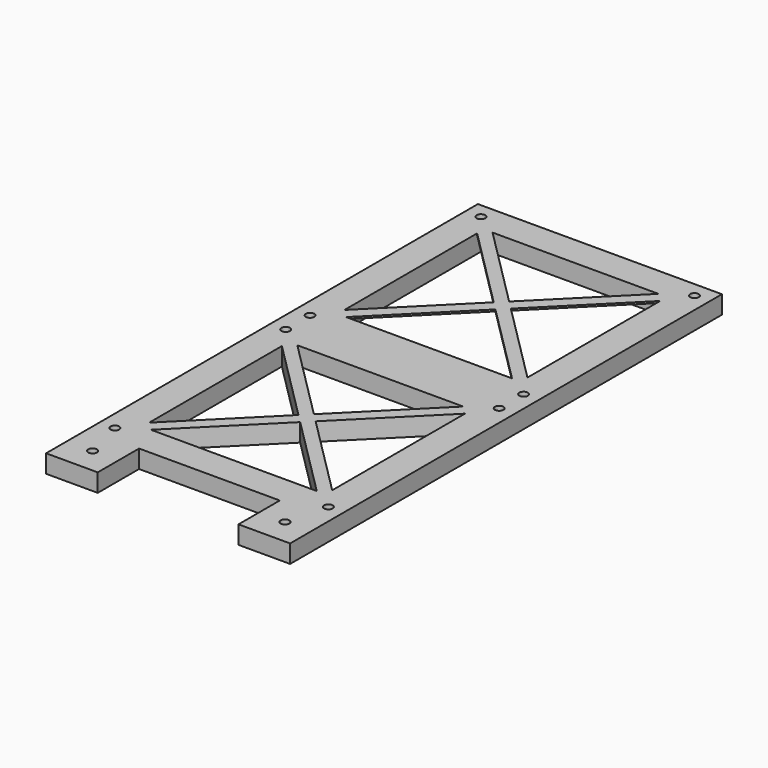
from build123d import *

# Parameters (mm, degrees)
SKETCH_R     = 2.1082
SKETCH_W     = 90
SKETCH_H     = 90
PAD_DEPTH    = 8.89
SKETCH001_W  = 25.4
SKETCH001_H  = 25.4
SKETCH001_R  = 2.1463
PAD001_DEPTH = 8.89
PAD002_DEPTH = 8.89
PAD003_DEPTH = 0.889


with BuildPart() as part:
    # Sketch → Pad (new body)
    with BuildSketch(Plane.XY):
        Polygon((60, 60), (60, -60), (-60, -60), (-60, 60), (-60, 180), (60, 180), align=None)
        with Locations((-52.5, 52.5)):
            Circle(SKETCH_R, mode=Mode.SUBTRACT)
        with Locations((52.5, 52.5)):
            Circle(SKETCH_R, mode=Mode.SUBTRACT)
        with Locations((-52.5, -52.5)):
            Circle(SKETCH_R, mode=Mode.SUBTRACT)
        with Locations((52.5, -52.5)):
            Circle(SKETCH_R, mode=Mode.SUBTRACT)
        with Locations((-52.5, 172.5)):
            Circle(SKETCH_R, mode=Mode.SUBTRACT)
        with Locations((52.5, 172.5)):
            Circle(SKETCH_R, mode=Mode.SUBTRACT)
        with Locations((52.5, 67.5)):
            Circle(SKETCH_R, mode=Mode.SUBTRACT)
        with Locations((-52.5, 67.5)):
            Circle(SKETCH_R, mode=Mode.SUBTRACT)
        Rectangle(SKETCH_W, SKETCH_H, mode=Mode.SUBTRACT)
        with Locations((0, 120)):
            Rectangle(SKETCH_W, SKETCH_H, mode=Mode.SUBTRACT)
    extrude(amount=PAD_DEPTH)

    # Sketch001 (on Face24 of Pad) → Pad001 (join)
    with BuildSketch(Plane.XY.offset(8.89)):
        with Locations((-47.3, -72.7)):
            Rectangle(SKETCH001_W, SKETCH001_H)
        with Locations((-47.3, -72.7)):
            Circle(SKETCH001_R, mode=Mode.SUBTRACT)
        with Locations((47.3, -72.7)):
            Rectangle(SKETCH001_W, SKETCH001_H)
        with Locations((47.3, -72.7)):
            Circle(SKETCH001_R, mode=Mode.SUBTRACT)
    extrude(amount=-PAD001_DEPTH)

    # Sketch002 (on Face5 of Pad001) → Pad002 (join)
    with BuildSketch(Plane.XY.offset(8.89)):
        Polygon((-45, -40.7836), (-4.2164, 0), (-45, 40.7836), (-45, 45), (-40.7836, 45), (0, 4.2164), (40.7836, 45), (45, 45), (45, 40.7836), (4.2164, 0), (45, -40.7836), (45, -45), (40.7836, -45), (0, -4.2164), (-40.7836, -45), (-45, -45), align=None)
    extrude(amount=-PAD002_DEPTH)

    # Sketch003 (on Face5 of Pad001) → Pad003 (join)
    with BuildSketch(Plane.XY.offset(8.89)):
        Polygon((-45, 75), (-45, 79.2164), (-4.2164, 120), (-45, 160.7836), (-45, 165), (-40.7836, 165), (0, 124.2164), (40.7836, 165), (45, 165), (45, 160.7836), (4.2164, 120), (45, 79.2164), (45, 75), (40.7836, 75), (0, 115.7836), (-40.7836, 75), align=None)
    extrude(amount=-PAD003_DEPTH)


solid = part.part
